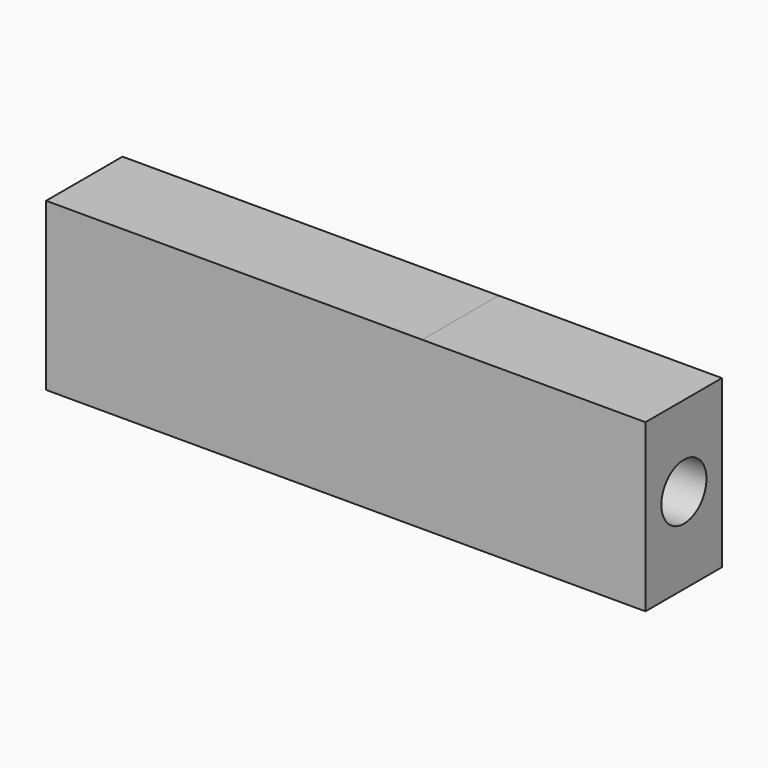
from build123d import *

# Parameters (mm, degrees)
F0_W      = 59.37849
F0_H      = 44.282265
F1_DEPTH  = 25.4
F1_FACE_W = 25.4
F1_FACE_H = 44.282266
F2_DEPTH  = 100
F3_R      = 7.5
F4_DEPTH  = 100


with BuildPart() as f1:
    # F0 (on Front) → F1 (new body)
    with BuildSketch(Plane.XZ):
        with Locations((0, -0.670943)):
            Rectangle(F0_W, F0_H)
    extrude(amount=F1_DEPTH)

    # F1_face (on face) → F2 (join)
    with BuildSketch(Plane(origin=(-29.689245, -12.7, -0.670943), x_dir=(0, -1, 0), z_dir=(-1, 0, 0))):
        Rectangle(F1_FACE_W, F1_FACE_H)
    extrude(amount=F2_DEPTH)

    # F3 (on face) → F4 (cut)
    with BuildSketch(Plane.YZ.offset(29.689245)):
        with Locations((-12.634334, 0)):
            Circle(F3_R)
    extrude(amount=-F4_DEPTH, mode=Mode.SUBTRACT)


solid = f1.part
